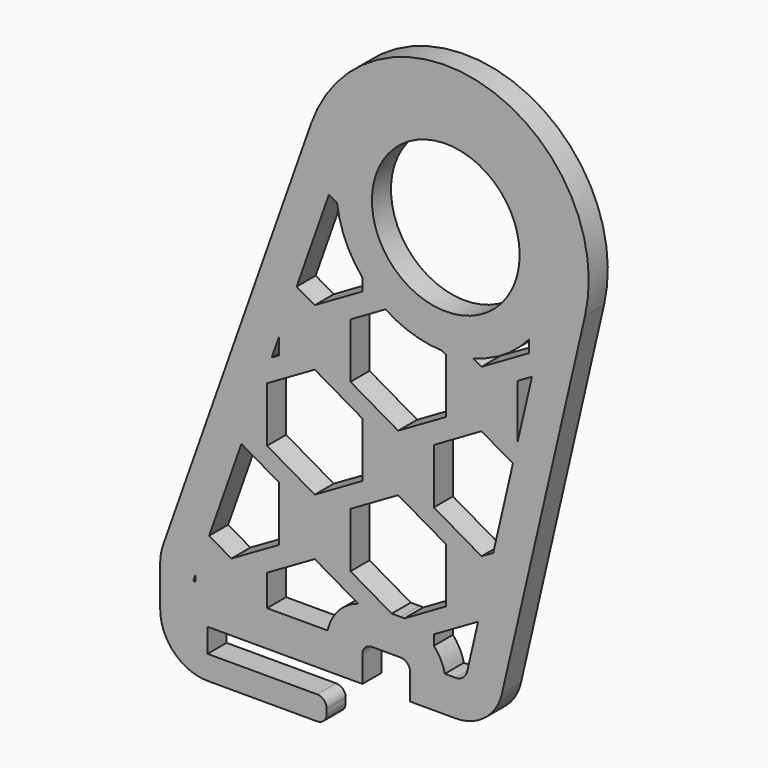
from build123d import *

# Parameters (mm, degrees)
F0_R     = 19.685
F1_DEPTH = 6.35
F2_R     = 2.54
F3_R     = 12.7
F5_DEPTH = 6.351


with BuildPart() as f1:
    # F0 (on Front) → F1 (new body)
    with BuildSketch(Plane.XZ):
        with BuildLine():
            Line((0, -6.351505), (0, 0))
            Line((0, 0), (41.275, 0))
            Line((41.275, 0), (41.275, 9.525))
            Line((41.275, 9.525), (53.975, 9.525))
            Line((53.975, 9.525), (53.975, 0))
            Line((53.975, 0), (76.2, 0))
            Line((76.2, 0), (100.622425, 105.724714))
            ThreePointArc((100.622425, 105.724714), (74.146687, 150.88221), (27.573491, 126.984477))
            Line((27.573491, 126.984477), (-12.608211, 13.177002))
            Line((-12.608211, 13.177002), (-12.608211, -12.701505))
            Line((-12.608211, -12.701505), (31.75, -12.701505))
            Line((31.75, -12.701505), (31.75, -6.351505))
            Line((31.75, -6.351505), (0, -6.351505))
        make_face()
        with Locations((63.5, 114.3)):
            Circle(F0_R, mode=Mode.SUBTRACT)
        with BuildLine():
            Line((0, -6.351505), (0, 0))
            Line((0, 0), (41.275, 0))
            Line((41.275, 0), (41.275, 9.525))
            Line((41.275, 9.525), (53.975, 9.525))
            Line((53.975, 9.525), (53.975, 0))
            Line((53.975, 0), (76.2, 0))
            Line((76.2, 0), (100.622425, 105.724714))
            ThreePointArc((100.622425, 105.724714), (74.146687, 150.88221), (27.573491, 126.984477))
            Line((27.573491, 126.984477), (-12.608211, 13.177002))
            Line((-12.608211, 13.177002), (-12.608211, -12.701505))
            Line((-12.608211, -12.701505), (31.75, -12.701505))
            Line((31.75, -12.701505), (31.75, -6.351505))
            Line((31.75, -6.351505), (0, -6.351505))
        make_face()
        with Locations((63.5, 114.3)):
            Circle(F0_R, mode=Mode.SUBTRACT)
    extrude(amount=F1_DEPTH)

    # F2
    f2_edges = [f1.edges().sort_by_distance(p)[0] for p in [
        (31.75, -3.175, -6.351505),
        (31.75, -3.175, -12.701505),
        (41.275, -3.175, 9.525),
        (53.975, -3.175, 9.525),
    ]]
    fillet(f2_edges, radius=F2_R)

    # F3
    f3_edges = [f1.edges().sort_by_distance(p)[0] for p in [
        (-12.608211, -3.175, -12.701505),
        (-12.608211, -3.175, 13.177002),
        (76.2, -3.175, 0),
    ]]
    fillet(f3_edges, radius=F3_R)

    # F4 (on Front) → F5 (cut, through all)
    with BuildSketch(Plane.XZ):
        with BuildLine():
            ThreePointArc((41.275, 95.345489), (36.780001, 102.498908), (34.520263, 110.639546))
            Line((34.520263, 110.639546), (32.346901, 111.894337))
            Line((32.346901, 111.894337), (23.745077, 87.531209))
            Line((23.745077, 87.531209), (28.575, 84.742652))
            Line((28.575, 84.742652), (41.275, 92.075))
            Line((41.275, 92.075), (41.275, 95.345489))
        make_face()
        Polygon((-3.175, 11.284914), (-3.796368, 9.525), (-3.175, 9.525), align=None)
        with BuildLine():
            Line((63.229602, 9.525), (66.099263, 9.525))
            ThreePointArc((66.099263, 9.525), (68.075591, 10.215095), (69.192798, 11.985393))
            Line((69.192798, 11.985393), (72.117945, 24.648357))
            Line((72.117945, 24.648357), (60.325, 17.839697))
            Line((60.325, 17.839697), (60.325, 15.141723))
            ThreePointArc((60.325, 15.141723), (62.151813, 12.527035), (63.229602, 9.525))
        make_face()
        with BuildLine():
            Line((49.098523, 19.05), (51.435, 19.05))
            ThreePointArc((51.435, 19.05), (51.933052, 19.039716), (52.430256, 19.00888))
            Line((52.430256, 19.00888), (63.5, 25.4))
            Line((63.5, 25.4), (63.5, 40.064697))
            Line((63.5, 40.064697), (50.8, 47.397045))
            Line((50.8, 47.397045), (38.1, 40.064697))
            Line((38.1, 40.064697), (38.1, 25.4))
            Line((38.1, 25.4), (49.098523, 19.05))
        make_face()
        with BuildLine():
            Line((15.875, 9.525), (32.020398, 9.525))
            ThreePointArc((32.020398, 9.525), (34.885752, 15.098738), (40.160436, 18.483191))
            Line((40.160436, 18.483191), (28.575, 25.172045))
            Line((28.575, 25.172045), (15.875, 17.839697))
            Line((15.875, 17.839697), (15.875, 9.525))
        make_face()
        Polygon((19.05, 40.064697), (9.028931, 45.850364), (0.427107, 21.487236), (6.35, 18.067652), (19.05, 25.4), align=None)
        Polygon((19.05, 69.85), (19.05, 74.233246), (17.106185, 68.727738), align=None)
        with BuildLine():
            Line((63.5, 84.514697), (62.472217, 85.108087))
            ThreePointArc((62.472217, 85.108087), (54.623617, 86.471347), (47.435202, 89.904378))
            Line((47.435202, 89.904378), (38.1, 84.514697))
            Line((38.1, 84.514697), (38.1, 69.85))
            Line((38.1, 69.85), (50.8, 62.517652))
            Line((50.8, 62.517652), (63.5, 69.85))
            Line((63.5, 69.85), (63.5, 84.514697))
        make_face()
        Polygon((86.469863, 86.777831), (82.55, 84.514697), (82.55, 69.85), (82.55841, 69.845145), align=None)
        Polygon((15.875, 62.289697), (15.875, 47.625), (28.575, 40.292652), (41.275, 47.625), (41.275, 62.289697), (28.575, 69.622045), align=None)
        Polygon((60.325, 62.289697), (60.325, 47.625), (73.025, 40.292652), (76.148332, 42.095908), (81.391103, 64.791873), (73.025, 69.622045), align=None)
        with BuildLine():
            Line((70.8124, 86.020097), (73.025, 84.742652))
            Line((73.025, 84.742652), (85.725, 92.075))
            Line((85.725, 92.075), (85.725, 95.345489))
            ThreePointArc((85.725, 95.345489), (78.98726, 89.533715), (70.8124, 86.020097))
        make_face()
    extrude(amount=F5_DEPTH, mode=Mode.SUBTRACT)


solid = f1.part
